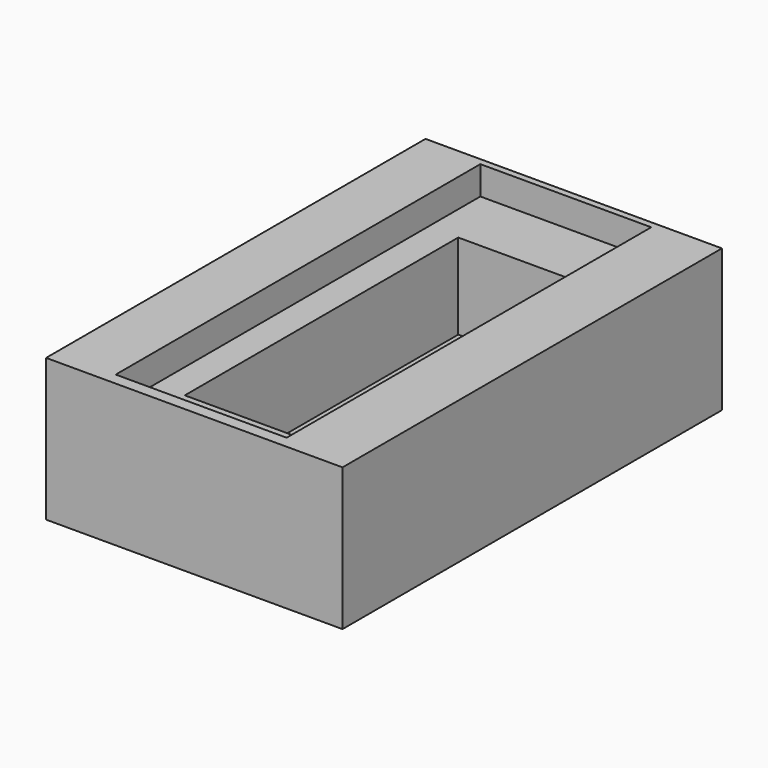
from build123d import *

# Parameters (mm, degrees)
F0_W          = 66.080972
F0_H          = 105.729562
F1_DEPTH      = 6.35
F2_W          = 66.080972
F2_H          = 105.729562
F2_W_2        = 38.1
F2_H_2        = 101.6
F3_DEPTH      = 25.4
F4_W          = 38.1
F4_H          = 101.6
F4_W_2        = 25.4
F4_H_2        = 76.2
F5_DEPTH      = 19.05
F6_W          = 6.35
F6_H          = 48.527334
F7_DEPTH      = 25.4
F7_DEPTH_BACK = 25.4


with BuildPart() as f1:
    # F0 (on Top) → F1 (new body)
    with BuildSketch(Plane.XY):
        with Locations((0.146851, 2e-06)):
            Rectangle(F0_W, F0_H)
        with Locations((0.146851, 2e-06)):
            Rectangle(F0_W, F0_H)
    extrude(amount=F1_DEPTH)

    # F2 (on face) → F3 (join)
    with BuildSketch(Plane.XY.offset(6.35)):
        with Locations((0.146851, 2e-06)):
            Rectangle(F2_W, F2_H)
        with Locations((-0.440535, 0.589116)):
            Rectangle(F2_W_2, F2_H_2, mode=Mode.SUBTRACT)
    extrude(amount=F3_DEPTH)

    # F4 (on face) → F5 (join)
    with BuildSketch(Plane.XY.offset(6.35)):
        with Locations((-0.440535, 0.589116)):
            Rectangle(F4_W, F4_H)
        with Locations((-0.128517, -1.191032)):
            Rectangle(F4_W_2, F4_H_2, mode=Mode.SUBTRACT)
    extrude(amount=F5_DEPTH)

    # F6 (on face) → F7 (cut, two sides)
    with BuildSketch(Plane.XY.offset(6.35)) as f7_sk:
        with Locations((-0.011918, -0.932903)):
            Rectangle(F6_W, F6_H)
    extrude(amount=F7_DEPTH, mode=Mode.SUBTRACT)
    extrude(f7_sk.sketch, amount=-F7_DEPTH_BACK, mode=Mode.SUBTRACT)


solid = f1.part
